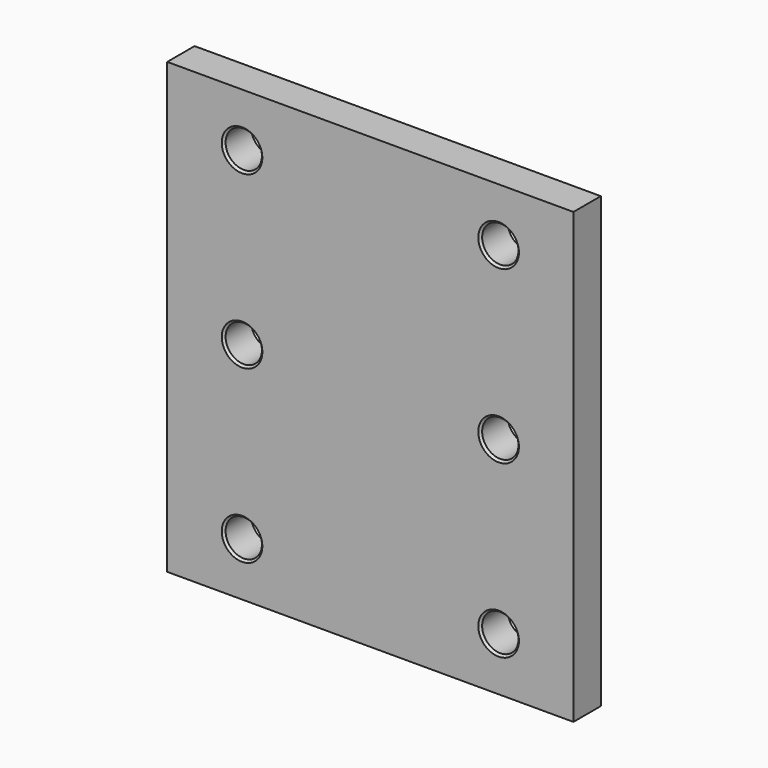
from build123d import *

# Parameters (mm, degrees)
F0_W     = 95
F0_H     = 105
F0_R     = 4.25
F1_DEPTH = 8
F2_SIZE  = 0.5


with BuildPart() as f1:
    # F0 (on Front) → F1 (new body)
    with BuildSketch(Plane.XZ):
        with Locations((2.5, 0)):
            Rectangle(F0_W, F0_H)
        with Locations((-27.5, -40)):
            Circle(F0_R, mode=Mode.SUBTRACT)
        with Locations((32.5, -40)):
            Circle(F0_R, mode=Mode.SUBTRACT)
        with Locations((-27.5, 0)):
            Circle(F0_R, mode=Mode.SUBTRACT)
        with Locations((-27.5, 40)):
            Circle(F0_R, mode=Mode.SUBTRACT)
        with Locations((32.5, 0)):
            Circle(F0_R, mode=Mode.SUBTRACT)
        with Locations((32.5, 40)):
            Circle(F0_R, mode=Mode.SUBTRACT)
    extrude(amount=F1_DEPTH)

    # F2
    f2_edges = [f1.edges().sort_by_distance(p)[0] for p in [
        (-31.75, -8, 40),
        (28.25, -8, 40),
        (28.25, -8, -40),
        (-31.75, -8, -40),
        (-31.75, -8, 0),
        (28.25, -8, 0),
    ]]
    chamfer(f2_edges, length=F2_SIZE)


solid = f1.part
